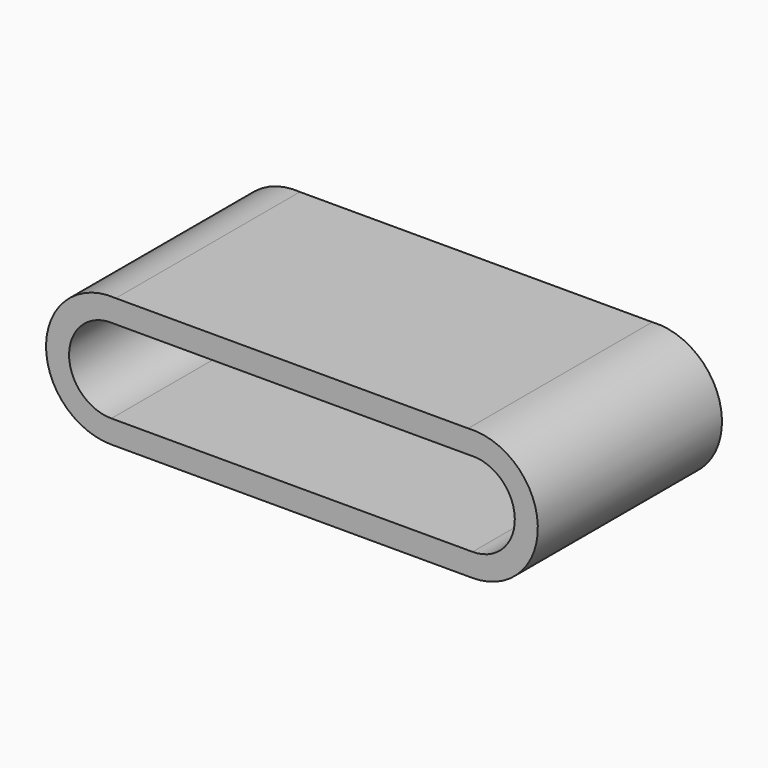
from build123d import *

# Parameters (mm, degrees)
F1_DEPTH = 30


with BuildPart() as f1:
    # F0 (on Front) → F1 (new body)
    with BuildSketch(Plane.XZ):
        with BuildLine():
            Line((0, 8.479795), (-22.96427, 8.479795))
            ThreePointArc((-22.96427, 8.479795), (-32.045215, 0.28518), (-23.534273, -8.499985))
            Line((-23.534273, -8.499985), (-0.645361, -8.499985))
            Line((-0.645361, -8.499985), (0.645361, -8.499985))
            Line((0.645361, -8.499985), (23.534273, -8.499985))
            ThreePointArc((23.534273, -8.499985), (32.045215, 0.28518), (22.96427, 8.479795))
            Line((22.96427, 8.479795), (0, 8.479795))
        make_face()
        with BuildLine():
            ThreePointArc((-23.537349, -5.499985), (-29.044672, -0.24204), (-24.021008, 5.479795))
            Line((-24.021008, 5.479795), (0, 5.479795))
            Line((0, 5.479795), (24.021008, 5.479795))
            ThreePointArc((24.021008, 5.479795), (29.044672, -0.24204), (23.537349, -5.499985))
            Line((23.537349, -5.499985), (0, -5.499985))
            Line((0, -5.499985), (-23.537349, -5.499985))
        make_face(mode=Mode.SUBTRACT)
    extrude(amount=F1_DEPTH)


solid = f1.part
